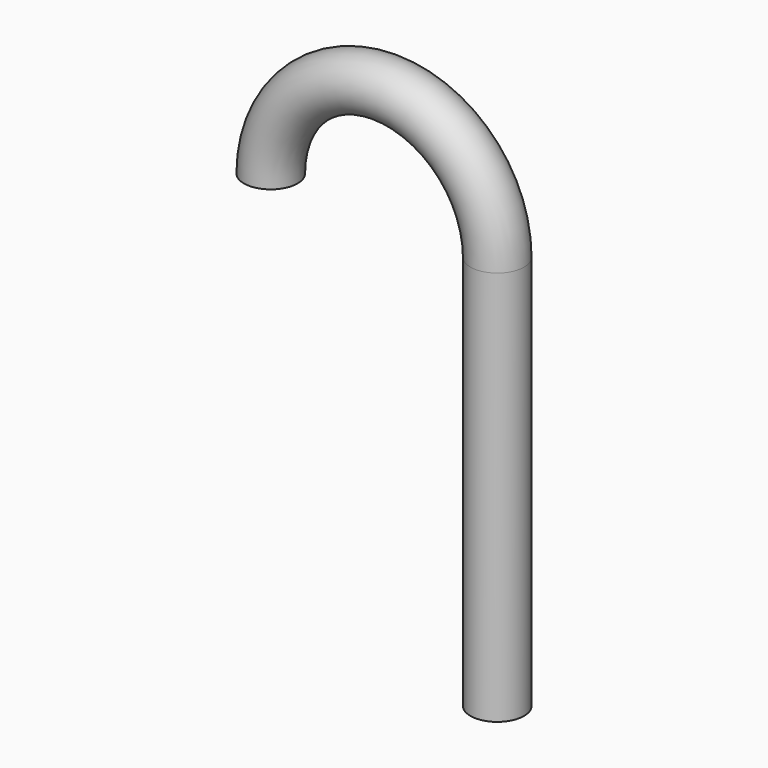
from build123d import *

# Parameters (mm, degrees)
F1_R = 4.8356


with BuildPart() as f2:
    # F2: sweep along a path in F0
    with BuildLine(Plane.XZ) as f2_path:
        ThreePointArc((-40.806558, 0), (-20.403279, 20.403279), (0, 0))
        Line((0, 0), (0, -71.265735))
    # F1 (on Top) → F2 (sweep)
    with BuildSketch(Plane.XY):
        with Locations((-40.827263, 0)):
            Circle(F1_R)
    sweep(path=f2_path.line)


solid = f2.part
